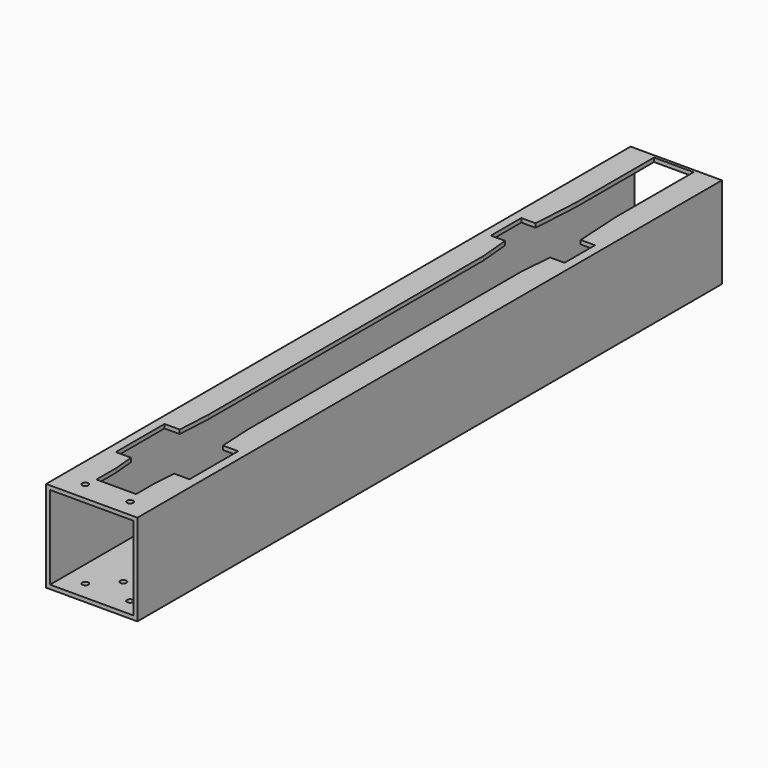
from build123d import *

# Parameters (mm, degrees)
F0_W     = 76.2
F0_H     = 76.2
F0_W_2   = 69.596
F0_H_2   = 69.596
F1_DEPTH = 609.6
F3_DEPTH = 25.4
F5_D     = 5.08


with BuildPart() as f1:
    # F0 (on Front) → F1 (new body)
    with BuildSketch(Plane.XZ):
        with Locations((21.630452, 18.620882)):
            Rectangle(F0_W, F0_H)
        with Locations((21.630452, 18.620882)):
            Rectangle(F0_W_2, F0_H_2, mode=Mode.SUBTRACT)
    extrude(amount=F1_DEPTH)

    # F2 (on face) → F3 (cut)
    with BuildSketch(Plane.XY.offset(56.720882)):
        Polygon((38.140452, -2.54), (5.120452, -2.54), (5.120452, -83.82), (2.834452, -123.19), (-9.103548, -123.19), (-9.103548, -154.94), (2.834452, -154.94), (5.120452, -180.34), (5.120452, -467.36), (3.596452, -495.3), (-9.103548, -495.3), (-9.103548, -546.1), (3.596452, -546.1), (5.251717, -563.88), (5.251717, -584.2), (38.271717, -584.2), (38.271717, -563.88), (39.664452, -546.1), (52.364452, -546.1), (52.364452, -495.3), (39.664452, -495.3), (38.140452, -467.36), (38.140452, -180.34), (40.426452, -154.94), (52.364452, -154.94), (52.364452, -123.19), (40.426452, -123.19), (38.140452, -83.82), align=None)
    extrude(amount=-F3_DEPTH, mode=Mode.SUBTRACT)

    # F5 (through all)
    with Locations(Plane(origin=(0, 0, -19.479118), x_dir=(1, 0, 0), z_dir=(0, 0, -1))):
        with Locations((21.630452, 576.58), (21.630452, 516.89), (21.630452, 457.2), (21.630452, 397.51), (21.630452, 337.82), (21.630452, 278.13), (21.630452, 218.44), (21.630452, 158.75), (21.630452, 99.06), (21.630452, 39.37), (3.850452, 594.042182), (41.950452, 595.025122)):
            Hole(F5_D / 2)


solid = f1.part
